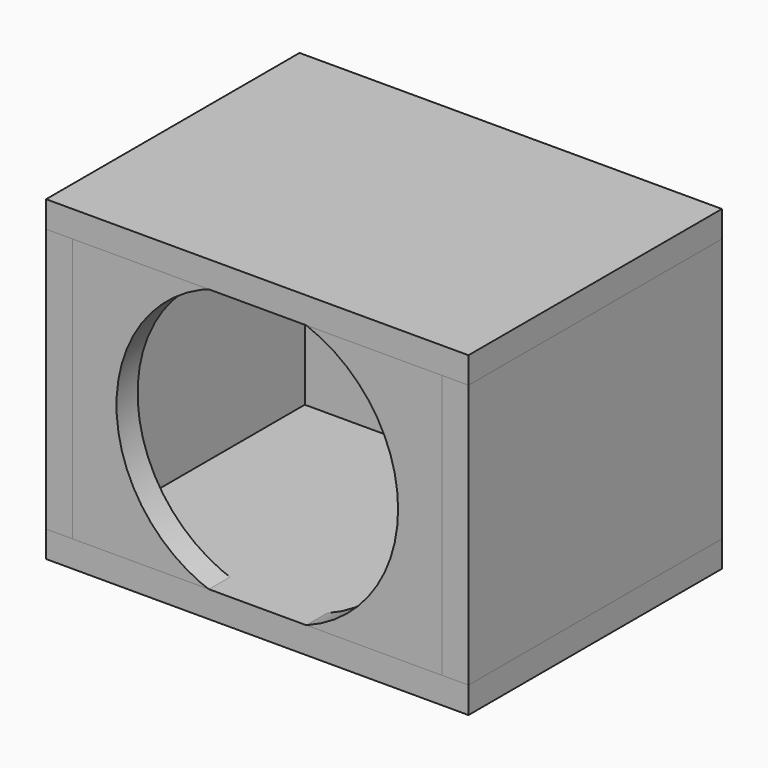
from build123d import *

# Parameters (mm, degrees)
F2_W      = 6.35
F2_H      = 6.35
F2_W_2    = 88.9
F3_DEPTH  = 76.2
F4_R      = 33.8666666667
F5_DEPTH  = 6.35
F2_H_2    = 63.5
F6_DEPTH  = 76.2
F7_DEPTH  = 76.2
F8_DEPTH  = 76.2
F9_START  = 69.85
F9_DEPTH  = 6.35
F10_DEPTH = 6.35


with BuildPart() as f3:
    # F2 (on Top) → F3 (new body)
    with BuildSketch(Plane.XY):
        with Locations((98.425, 3.175)):
            Rectangle(F2_W, F2_H)
        with Locations((50.8, 3.175)):
            Rectangle(F2_W_2, F2_H)
        with Locations((3.175, 3.175)):
            Rectangle(F2_W, F2_H)
    extrude(amount=F3_DEPTH)

    # F4 (on face) → F5 (cut, through all)
    with BuildSketch(Plane.XZ):
        with Locations((50.8, 38.1)):
            Circle(F4_R)
    extrude(amount=-F5_DEPTH, mode=Mode.SUBTRACT)


with BuildPart() as f6:
    # F2 (on Top) → F6 (new body)
    with BuildSketch(Plane.XY):
        with Locations((3.175, 3.175)):
            Rectangle(F2_W, F2_H)
        with Locations((3.175, 38.1)):
            Rectangle(F2_W, F2_H_2)
        with Locations((3.175, 73.025)):
            Rectangle(F2_W, F2_H)
    extrude(amount=F6_DEPTH)


with BuildPart() as f7:
    # F2 (on Top) → F7 (new body)
    with BuildSketch(Plane.XY):
        with Locations((3.175, 73.025)):
            Rectangle(F2_W, F2_H)
        with Locations((50.8, 73.025)):
            Rectangle(F2_W_2, F2_H)
        with Locations((98.425, 73.025)):
            Rectangle(F2_W, F2_H)
    extrude(amount=F7_DEPTH)


with BuildPart() as f8:
    # F2 (on Top) → F8 (new body)
    with BuildSketch(Plane.XY):
        with Locations((98.425, 73.025)):
            Rectangle(F2_W, F2_H)
        with Locations((98.425, 38.1)):
            Rectangle(F2_W, F2_H_2)
        with Locations((98.425, 3.175)):
            Rectangle(F2_W, F2_H)
    extrude(amount=F8_DEPTH)


with BuildPart() as f9:
    # F2 (on Top) → F9 (new body)
    with BuildSketch(Plane.XY.offset(F9_START)):
        with Locations((3.175, 3.175)):
            Rectangle(F2_W, F2_H)
        with Locations((3.175, 38.1)):
            Rectangle(F2_W, F2_H_2)
        with Locations((3.175, 73.025)):
            Rectangle(F2_W, F2_H)
        with Locations((50.8, 73.025)):
            Rectangle(F2_W_2, F2_H)
        with Locations((98.425, 73.025)):
            Rectangle(F2_W, F2_H)
        with Locations((98.425, 38.1)):
            Rectangle(F2_W, F2_H_2)
        with Locations((98.425, 3.175)):
            Rectangle(F2_W, F2_H)
        with Locations((50.8, 38.1)):
            Rectangle(F2_W_2, F2_H_2)
        with Locations((50.8, 3.175)):
            Rectangle(F2_W_2, F2_H)
    extrude(amount=F9_DEPTH)


with BuildPart() as f10:
    # F2 (on Top) → F10 (new body)
    with BuildSketch(Plane.XY):
        with Locations((3.175, 3.175)):
            Rectangle(F2_W, F2_H)
        with Locations((3.175, 38.1)):
            Rectangle(F2_W, F2_H_2)
        with Locations((3.175, 73.025)):
            Rectangle(F2_W, F2_H)
        with Locations((50.8, 73.025)):
            Rectangle(F2_W_2, F2_H)
        with Locations((98.425, 73.025)):
            Rectangle(F2_W, F2_H)
        with Locations((98.425, 38.1)):
            Rectangle(F2_W, F2_H_2)
        with Locations((98.425, 3.175)):
            Rectangle(F2_W, F2_H)
        with Locations((50.8, 3.175)):
            Rectangle(F2_W_2, F2_H)
        with Locations((50.8, 38.1)):
            Rectangle(F2_W_2, F2_H_2)
    extrude(amount=F10_DEPTH)


solid = Compound([f3.part, f6.part, f7.part, f8.part, f9.part, f10.part])
